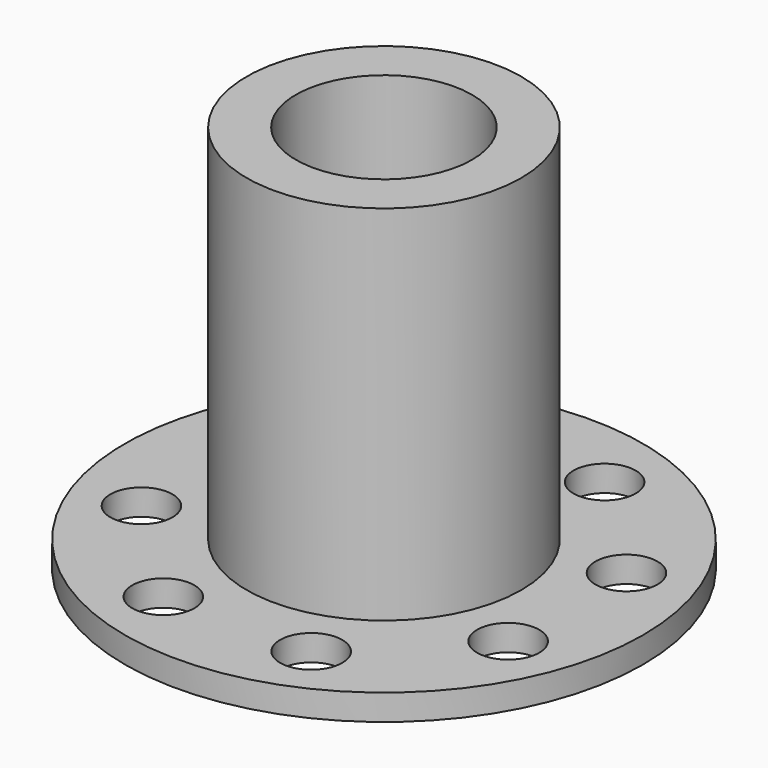
from build123d import *

# Parameters (mm, degrees)
F0_R     = 50
F0_R_2   = 6
F0_R_3   = 26.5
F1_DEPTH = 5
F0_R_4   = 17
F2_DEPTH = 75


with BuildPart() as f1:
    # F0 (on Top) → F1 (new body)
    with BuildSketch(Plane.XY):
        Circle(F0_R)
        with Locations((-14.26691, -35.378594)):
            Circle(F0_R_2, mode=Mode.SUBTRACT)
        with Locations((-35.378594, -14.26691)):
            Circle(F0_R_2, mode=Mode.SUBTRACT)
        with Locations((14.26691, -35.378594)):
            Circle(F0_R_2, mode=Mode.SUBTRACT)
        with Locations((35.378594, -14.26691)):
            Circle(F0_R_2, mode=Mode.SUBTRACT)
        with Locations((-35.378594, 14.26691)):
            Circle(F0_R_2, mode=Mode.SUBTRACT)
        with Locations((-14.26691, 35.378594)):
            Circle(F0_R_2, mode=Mode.SUBTRACT)
        Circle(F0_R_3, mode=Mode.SUBTRACT)
        with Locations((35.378594, 14.26691)):
            Circle(F0_R_2, mode=Mode.SUBTRACT)
        with Locations((14.26691, 35.378594)):
            Circle(F0_R_2, mode=Mode.SUBTRACT)
    extrude(amount=F1_DEPTH)

    # F0 (on Top) → F2 (join)
    with BuildSketch(Plane.XY):
        Circle(F0_R_3)
        Circle(F0_R_4, mode=Mode.SUBTRACT)
    extrude(amount=F2_DEPTH)


solid = f1.part
